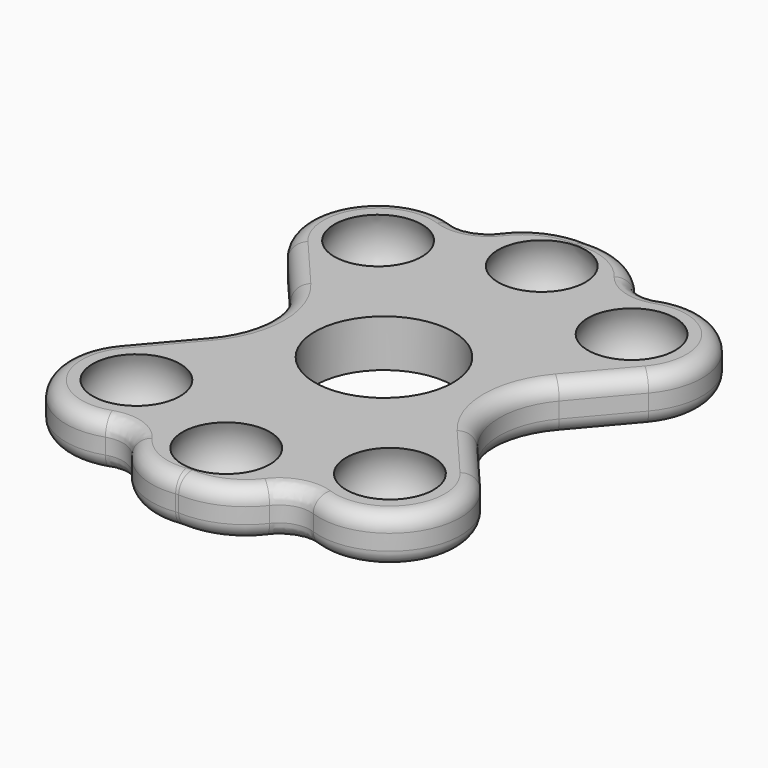
from build123d import *

# Parameters (mm, degrees)
F0_R     = 11.1125
F1_DEPTH = 3.81
F11_R    = 12.7
F12_R    = 5.08
F13_R    = 2.54


with BuildPart() as f1:
    # F0 (on Top) → F1 (new body, symmetric)
    with BuildSketch(Plane.XY):
        with BuildLine():
            Line((14.6015180292, 0), (29.0525358478, 16.9540567161))
            ThreePointArc((29.0525358478, 16.9540567161), (28.4081779383, 32.3847751924), (12.9728671668, 32.9077008044))
            ThreePointArc((12.9728671668, 32.9077008044), (7.981374816, 39.4861214795), (0, 41.6046753526))
            ThreePointArc((0, 41.6046753526), (-7.981374816, 39.4861214795), (-12.9728671668, 32.9077008044))
            ThreePointArc((-12.9728671668, 32.9077008044), (-28.4081779383, 32.3847751924), (-29.0525358478, 16.9540567161))
            Line((-29.0525358478, 16.9540567161), (-14.6015180292, 0))
            Line((-14.6015180292, 0), (-29.0525358478, -16.9540567161))
            ThreePointArc((-29.0525358478, -16.9540567161), (-28.3585664732, -32.4336967791), (-12.8680911945, -32.8158297566))
            ThreePointArc((-12.8680911945, -32.8158297566), (-8.1681336523, -39.7491984251), (0, -41.6046753526))
            ThreePointArc((0, -41.6046753526), (7.981374816, -39.4861214795), (12.9728671668, -32.9077008044))
            ThreePointArc((12.9728671668, -32.9077008044), (28.4081779383, -32.3847751924), (29.0525358478, -16.9540567161))
            Line((29.0525358478, -16.9540567161), (14.6015180292, 0))
        make_face()
        Circle(F0_R, mode=Mode.SUBTRACT)
    extrude(amount=F1_DEPTH, both=True)


with BuildPart() as f5:
    # F4 (on 3pt) → F5 (revolve)
    with BuildSketch(Plane(origin=(0, 0, 0), x_dir=(-0.6427876097, -0.7660444431, 0), z_dir=(-0.7660444431, 0.6427876097, 0))):
        with BuildLine():
            Line((-31.75, -8.001), (-31.75, 8.001))
            ThreePointArc((-31.75, 8.001), (-39.751, 0), (-31.75, -8.001))
        make_face()
    revolve(axis=Axis((20.4085066075, 24.321911069, 22.7892361581), (0, 0, 1)))


with BuildPart() as f7:
    # F6 (on Right) → F7 (revolve)
    with BuildSketch(Plane.YZ):
        with BuildLine():
            ThreePointArc((31.75, -8.001), (39.751, 0), (31.75, 8.001))
            Line((31.75, 8.001), (31.75, -8.001))
        make_face()
    revolve(axis=Axis((0, 31.75, 20.4966645688), (0, 0, 1)))


with BuildPart() as f8_1:
    # F8: instance of F5
    add(f5.part.mirror(Plane.YZ))


with BuildPart() as f9_1:
    # F9: instance of F8_1
    add(f8_1.part.mirror(Plane.XZ))


with BuildPart() as f9_2:
    # F9: instance of F7
    add(f7.part.mirror(Plane.XZ))


with BuildPart() as f9_3:
    # F9: instance of F5
    add(f5.part.mirror(Plane.XZ))


with BuildPart() as f1_1:
    add(f1.part)

    # F10: cut F9_1, F9_2, F9_3, F8_1, F5, F7
    add(f9_1.part, mode=Mode.SUBTRACT)
    add(f9_2.part, mode=Mode.SUBTRACT)
    add(f9_3.part, mode=Mode.SUBTRACT)
    add(f8_1.part, mode=Mode.SUBTRACT)
    add(f5.part, mode=Mode.SUBTRACT)
    add(f7.part, mode=Mode.SUBTRACT)

    # F11
    f11_edges = [f1_1.edges().sort_by_distance(p)[0] for p in [
        (14.601518, 0, 0),
        (-14.601518, 0, 0),
    ]]
    fillet(f11_edges, radius=F11_R)

    # F12
    f12_edges = [f1_1.edges().sort_by_distance(p)[0] for p in [
        (-12.868091, -32.81583, 0),
        (12.972867, -32.907701, 0),
        (12.972867, 32.907701, 0),
        (-12.972867, 32.907701, 0),
    ]]
    fillet(f12_edges, radius=F12_R)

    # F13
    f13_edges = [f1_1.edges().sort_by_distance(p)[0] for p in [
        (-29.774016, 30.747777, -3.81),
        (-16.644664, 35.038161, 0),
        (-29.052536, 16.954057, 0),
        (-29.774016, 30.747777, 3.81),
        (-25.338078, 12.596223, -3.81),
        (-21.623619, 8.238389, 0),
        (-25.338078, 12.596223, 3.81),
        (-18.588967, 0, -3.81),
        (-21.623619, -8.238389, 0),
        (-18.588967, 0, 3.81),
        (-25.338078, -12.596223, -3.81),
        (-29.052536, -16.954057, 0),
        (-25.338078, -12.596223, 3.81),
        (-29.814917, -30.687755, -3.81),
        (-16.782028, -35.085422, 0),
        (-29.814917, -30.687755, 3.81),
        (-13.594673, -35.066717, -3.81),
        (-11.023581, -36.950614, 0),
        (-13.594673, -35.066717, 3.81),
        (-6.170836, -40.838657, -3.81),
        (0, -41.604675, 0),
        (-6.170836, -40.838657, 3.81),
        (6.085982, -40.53442, -3.81),
        (10.946448, -36.718597, 0),
        (6.085982, -40.53442, 3.81),
        (13.524305, -34.958588, 3.81),
        (16.644664, -35.038161, 0),
        (13.524305, -34.958588, -3.81),
        (29.774016, -30.747777, -3.81),
        (29.052536, -16.954057, 0),
        (29.774016, -30.747777, 3.81),
        (25.338078, -12.596223, -3.81),
        (21.623619, -8.238389, 0),
        (25.338078, -12.596223, 3.81),
        (18.588967, 0, -3.81),
        (21.623619, 8.238389, 0),
        (18.588967, 0, 3.81),
        (25.338078, 12.596223, -3.81),
        (29.052536, 16.954057, 0),
        (25.338078, 12.596223, 3.81),
        (29.774016, 30.747777, -3.81),
        (16.644664, 35.038161, 0),
        (29.774016, 30.747777, 3.81),
        (-6.085982, 40.53442, -3.81),
        (-10.946448, 36.718597, 0),
        (0, 41.604675, 0),
        (-6.085982, 40.53442, 3.81),
        (-13.524305, 34.958588, -3.81),
        (-13.524305, 34.958588, 3.81),
        (6.085982, 40.53442, -3.81),
        (10.946448, 36.718597, 0),
        (6.085982, 40.53442, 3.81),
        (13.524305, 34.958588, -3.81),
        (13.524305, 34.958588, 3.81),
    ]]
    fillet(f13_edges, radius=F13_R)


solid = f1_1.part
